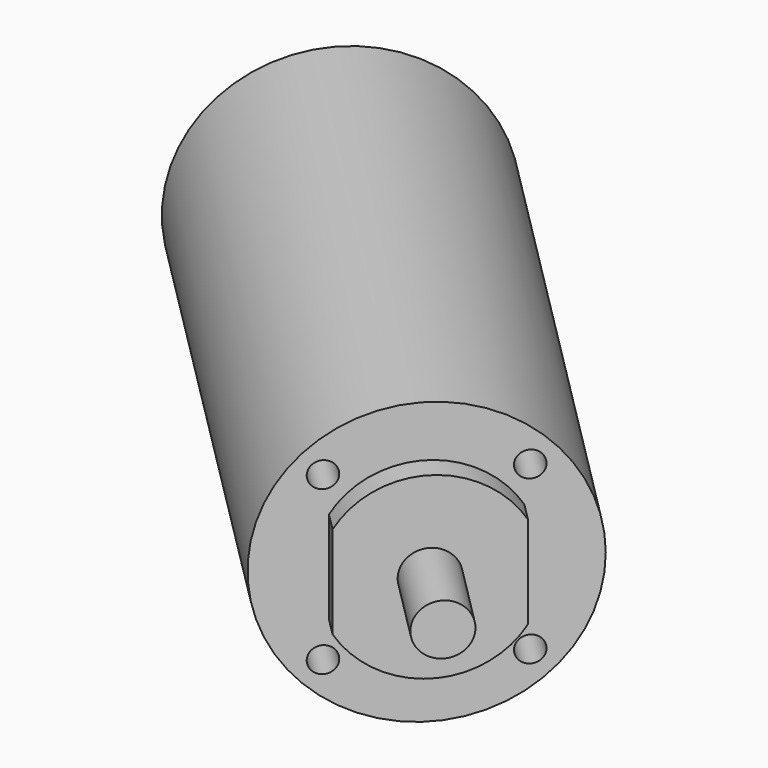
from build123d import *

# Parameters (mm, degrees)
SKETCH104_R             = 11
PAD046_DEPTH            = 47.3
PAD047_DEPTH            = 2
SKETCH106_R             = 1
POCKET054_DEPTH         = 5
SKETCH107_R             = 2
PAD048_DEPTH            = 14
BODY030_PLACEMENT_ANGLE = 45


with BuildPart() as part:
    # Sketch104 → Pad046 (new body)
    with BuildSketch(Plane.XZ):
        Circle(SKETCH104_R)
    extrude(amount=-PAD046_DEPTH)

    # Sketch105 (on Face2 of Pad046) → Pad047 (join)
    with BuildSketch(Plane.XZ):
        with BuildLine():
            Line((-6, 3.605551), (-6, -3.605551))
            ThreePointArc((-6, -3.605551), (0, -7), (6, -3.605551))
            Line((6, -3.605551), (6, 3.605551))
            ThreePointArc((6, 3.605551), (0, 7), (-6, 3.605551))
        make_face()
    extrude(amount=PAD047_DEPTH)

    # Sketch106 (on Face2 of Pad047) → Pocket054 (cut)
    with BuildSketch(Plane.XZ):
        with Locations((-6.363961, 6.363961)):
            Circle(SKETCH106_R)
        with Locations((6.363961, 6.363961)):
            Circle(SKETCH106_R)
        with Locations((6.363961, -6.363961)):
            Circle(SKETCH106_R)
        with Locations((-6.363961, -6.363961)):
            Circle(SKETCH106_R)
    extrude(amount=-POCKET054_DEPTH, mode=Mode.SUBTRACT)

    # Sketch107 (on Face14 of Pocket054) → Pad048 (join)
    with BuildSketch(Plane.XZ.offset(-5)):
        Circle(SKETCH107_R)
    extrude(amount=PAD048_DEPTH)


with BuildPart() as part_1:
    # Body030 placement: moved
    add(part.part.moved(Location((58.5, -58.5, 17))).rotate(Axis((58.5, -58.5, 17), (0, 0, 1)), BODY030_PLACEMENT_ANGLE))


solid = part_1.part
